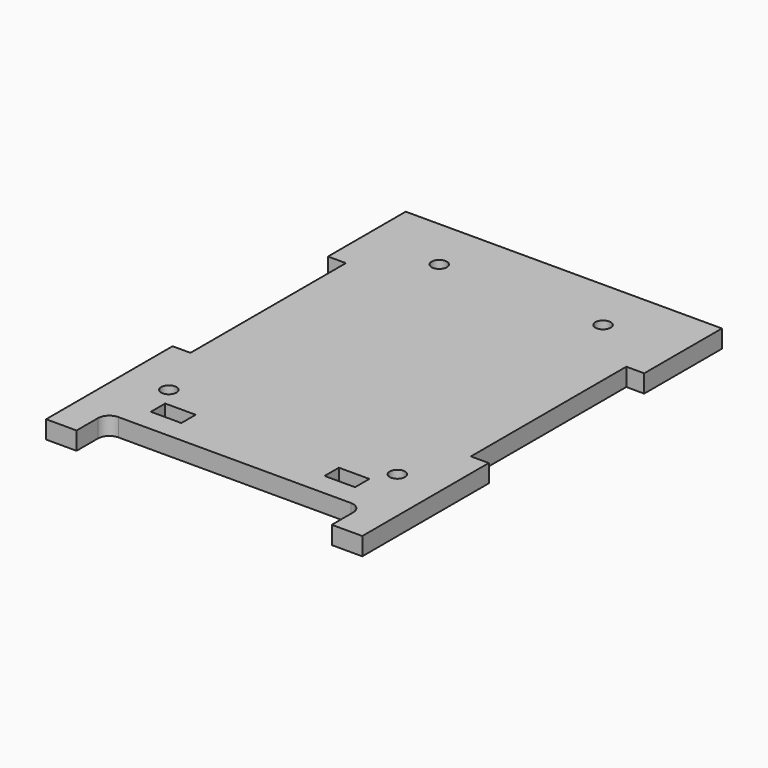
from build123d import *

# Parameters (mm, degrees)
SKETCH013_W             = 8
SKETCH013_H             = 4.7
PAD009_DEPTH            = 4.7
FILLET002_R             = 3
SKETCH020_R             = 2
POCKET002_DEPTH         = 293.388305
BODY015_PLACEMENT_ANGLE = 90


with BuildPart() as part:
    # Sketch013 → Pad009 (new body)
    with BuildSketch(Plane.XZ):
        Polygon((-41.5, -51), (-41.5, -25.5), (-36.8, -25.5), (-36.8, 25.5), (-41.5, 25.5), (-41.5, 51), (41.5, 51), (41.5, 25.5), (36.8, 25.5), (36.8, -25.5), (41.5, -25.5), (41.5, -51), (41.5, -67), (33.5, -67), (33.5, -57), (-33.5, -57), (-33.5, -67), (-41.5, -67), align=None)
        with Locations((-22.8, -48.65)):
            Rectangle(SKETCH013_W, SKETCH013_H, mode=Mode.SUBTRACT)
        with Locations((22.8, -48.65)):
            Rectangle(SKETCH013_W, SKETCH013_H, mode=Mode.SUBTRACT)
    extrude(amount=PAD009_DEPTH)

    # Fillet002
    fillet002_edges = [part.edges().sort_by_distance(p)[0] for p in [
        (-33.5, -2.35, -57),
        (33.5, -2.35, -57),
    ]]
    fillet(fillet002_edges, radius=FILLET002_R)

    # Sketch020 (on Face5 of Fillet002) → Pocket002 (cut, through all)
    with BuildSketch(Plane.XZ.offset(4.7)):
        with Locations((-21.5, 37)):
            Circle(SKETCH020_R)
        with Locations((-30, -41.1)):
            Circle(SKETCH020_R)
    pocket002 = extrude(amount=-POCKET002_DEPTH, mode=Mode.SUBTRACT)

    # Mirrored001: Pocket002 across Sketch020 V_Axis
    add(pocket002.mirror(Plane(origin=(0, -4.7, 0), x_dir=(0, -1, 0), z_dir=(1, 0, 0))), mode=Mode.SUBTRACT)


with BuildPart() as part_1:
    # Body009 placement: moved
    add(part.part.moved(Location((0, -36.8, 48))))


with BuildPart() as part_2:
    # Clone002 placement: moved
    add(part_1.part.moved(Location((0, 36.8, -48))))


with BuildPart() as part_3:
    # Body015 placement: moved
    add(part_2.part.moved(Location((183, 0, 0))).rotate(Axis((183, 0, 0), (-1, 0, 0)), BODY015_PLACEMENT_ANGLE))


solid = part_3.part
